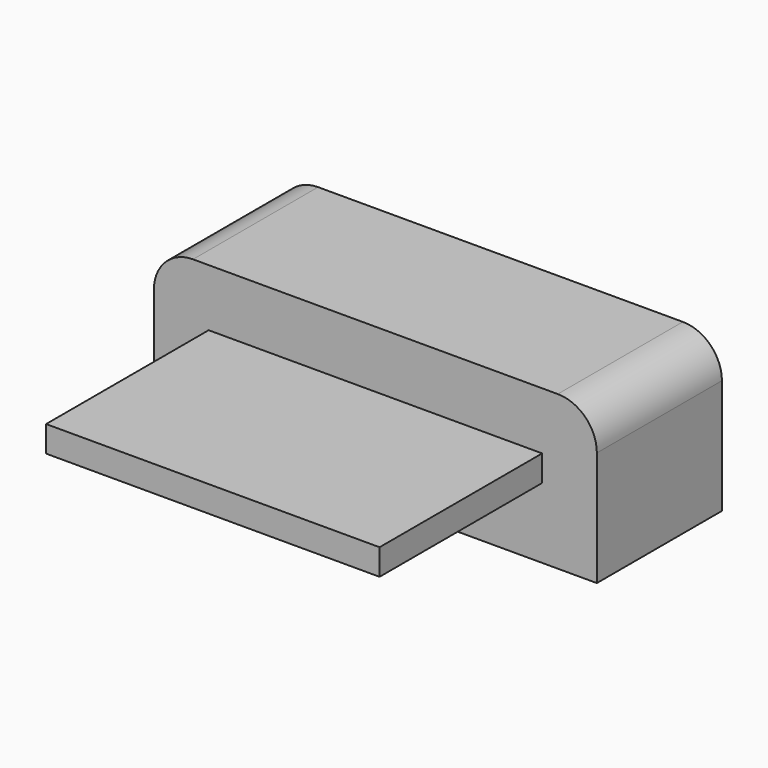
from build123d import *

# Parameters (mm, degrees)
BOX001_W                  = 6.4
BOX001_H                  = 0.5
BOX001_DEPTH              = 6.9
BOX067_W                  = 8.5
BOX067_H                  = 2.95
BOX067_DEPTH              = 3
FILLET018_R               = 0.75
FUSION051_PLACEMENT_ANGLE = 90


with BuildPart() as cube001:
    # Box001 → Box001 (new body)
    with BuildSketch(Plane(origin=(-3.2, 1.35, 0), x_dir=(1, 0, 0), z_dir=(0, 0, 1))):
        with Locations((3.2, 0.25)):
            Rectangle(BOX001_W, BOX001_H)
    extrude(amount=BOX001_DEPTH)


with BuildPart() as body009:
    # Box067 → Box067 (new body)
    with BuildSketch(Plane(origin=(-4.25, 0, 0), x_dir=(1, 0, 0), z_dir=(0, 0, 1))):
        with Locations((4.25, 1.475)):
            Rectangle(BOX067_W, BOX067_H)
    extrude(amount=BOX067_DEPTH)

    # Fillet018
    fillet018_edges = [body009.edges().sort_by_distance(p)[0] for p in [
        (-4.25, 2.95, 1.5),
        (4.25, 2.95, 1.5),
    ]]
    fillet(fillet018_edges, radius=FILLET018_R)

    # Fusion051: union Cube001
    add(cube001.part)


with BuildPart() as body009_1:
    # Fusion051 placement: moved
    add(body009.part.rotate(Axis((0, 0, 0), (1, 0, 0)), FUSION051_PLACEMENT_ANGLE))


solid = body009_1.part
